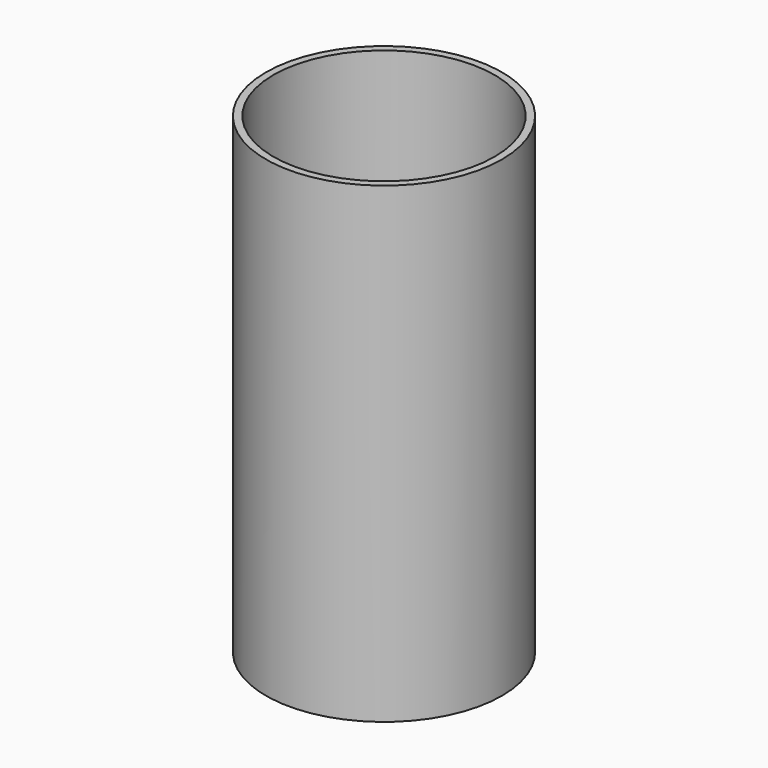
from build123d import *

# Parameters (mm, degrees)
F0_R     = 101.6
F0_R_2   = 95.25
F1_DEPTH = 406.4
F2_R     = 95.25
F3_DEPTH = 76.2
F4_R     = 94.603376
F5_DEPTH = 101.6


with BuildPart() as f1:
    # F0 (on Top) → F1 (new body)
    with BuildSketch(Plane.XY):
        Circle(F0_R)
        Circle(F0_R_2, mode=Mode.SUBTRACT)
    extrude(amount=F1_DEPTH)


with BuildPart() as f3:
    # F2 (on Top) → F3 (new body)
    with BuildSketch(Plane.XY):
        Circle(F2_R)
    extrude(amount=F3_DEPTH)


with BuildPart() as f5:
    # F4 (on face) → F5 (new body)
    with BuildSketch(Plane.XY.offset(76.2)):
        Circle(F4_R)
    extrude(amount=F5_DEPTH)


solid = Compound([f1.part, f3.part, f5.part])
